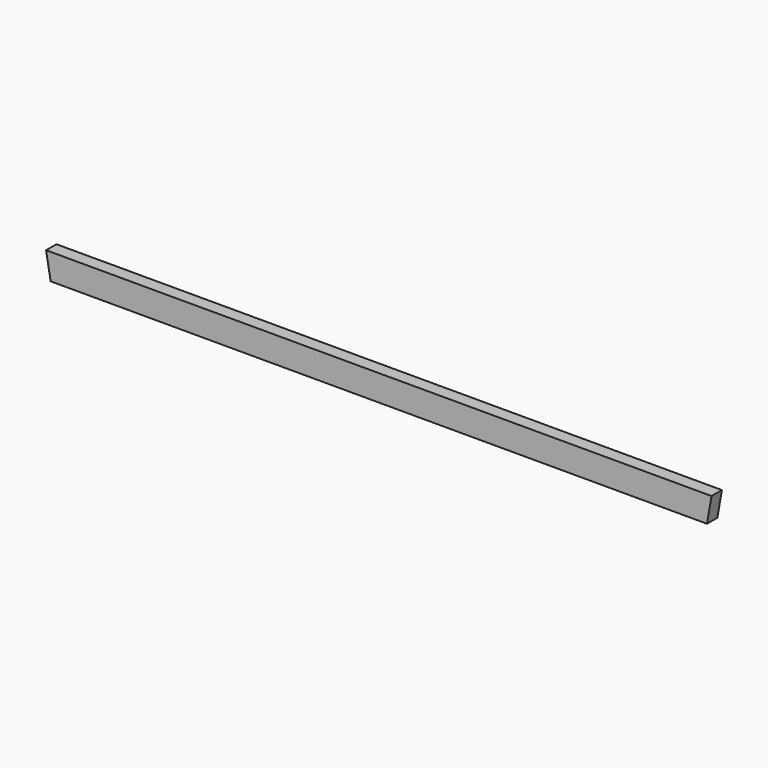
from build123d import *

# Parameters (mm, degrees)
F0_W     = 977.9
F0_H     = 38.1
F1_DEPTH = 19.05
F3_DEPTH = 25.4
F5_DEPTH = 25.4


with BuildPart() as f1:
    # F0 (on Front) → F1 (new body)
    with BuildSketch(Plane.XZ):
        with Locations((-488.95, 19.05)):
            Rectangle(F0_W, F0_H)
    extrude(amount=F1_DEPTH)

    # F2 (on face) → F3 (cut)
    with BuildSketch(Plane.XZ.offset(19.05)):
        Polygon((-971.181942, 0), (-977.9, 38.1), (-977.9, 0), align=None)
    extrude(amount=-F3_DEPTH, mode=Mode.SUBTRACT)

    # F4 (on face) → F5 (cut)
    with BuildSketch(Plane.XZ.offset(19.05)):
        Polygon((0, 0), (0, 38.1), (-6.718058, 0), align=None)
    extrude(amount=-F5_DEPTH, mode=Mode.SUBTRACT)


solid = f1.part
